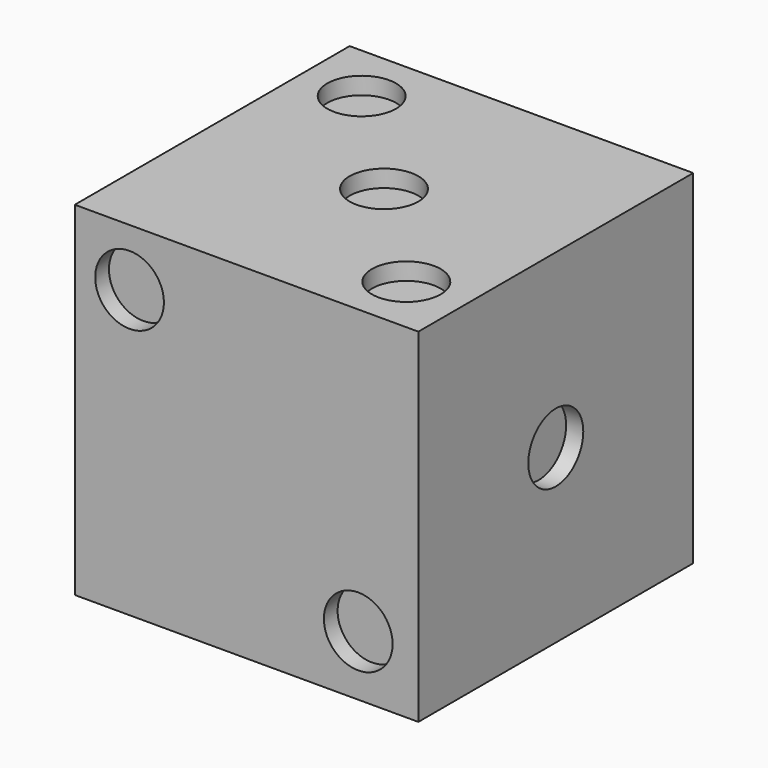
from build123d import *

# Parameters (mm, degrees)
F0_W      = 127
F0_H      = 127
F1_DEPTH  = 127
F2_R      = 12.7
F3_DEPTH  = 6.35
F4_R      = 12.7
F5_DEPTH  = 6.35
F6_R      = 12.7
F7_R      = 12.7
F7_R_2    = 12.14507
F8_DEPTH  = 6.35
F9_R      = 12.7
F10_DEPTH = 6.35
F11_R     = 12.7
F12_DEPTH = 6.35
F13_R     = 12.7
F14_DEPTH = 6.35


with BuildPart() as f1:
    # F0 (on Top) → F1 (new body)
    with BuildSketch(Plane.XY):
        with Locations((63.5, -63.5)):
            Rectangle(F0_W, F0_H)
    extrude(amount=F1_DEPTH)

    # F2 (on face) → F3 (cut)
    with BuildSketch(Plane.YZ.offset(127)):
        with Locations((-63.5, 63.5)):
            Circle(F2_R)
    extrude(amount=-F3_DEPTH, mode=Mode.SUBTRACT)

    # F4 (on face) → F5 (cut)
    with BuildSketch(Plane.XZ.offset(127)):
        with Locations((20.24712, 105.882019)):
            Circle(F4_R)
        with Locations((104.775, 22.225)):
            Circle(F4_R)
    extrude(amount=-F5_DEPTH, mode=Mode.SUBTRACT)

    # F6 (on face) + F7 (on face) → F8 (cut)
    with BuildSketch(Plane(origin=(0, 0, 0), x_dir=(0, -1, 0), z_dir=(-1, 0, 0))):
        with Locations((107.403494, 21.579256)):
            Circle(F6_R)
    with BuildSketch(Plane(origin=(0, 0, 0), x_dir=(0, -1, 0), z_dir=(-1, 0, 0))):
        with Locations((63.5, 22.225)):
            Circle(F7_R)
        with Locations((22.247186, 24.020914)):
            Circle(F7_R_2)
        with Locations((104.775, 104.775)):
            Circle(F7_R)
        with Locations((63.5, 104.775)):
            Circle(F7_R)
        with Locations((22.225, 104.775)):
            Circle(F7_R_2)
    extrude(amount=-F8_DEPTH, mode=Mode.SUBTRACT)

    # F9 (on face) → F10 (cut)
    with BuildSketch(Plane(origin=(0, 0, 0), x_dir=(-1, 0, 0), z_dir=(0, 1, 0))):
        with Locations((-22.44245, 104.347)):
            Circle(F9_R)
        with Locations((-63.5, 63.5)):
            Circle(F9_R)
        with Locations((-22.44245, 22.653)):
            Circle(F9_R)
        with Locations((-104.775, 22.225)):
            Circle(F9_R)
        with Locations((-104.775, 104.775)):
            Circle(F9_R)
    extrude(amount=-F10_DEPTH, mode=Mode.SUBTRACT)

    # F11 (on face) → F12 (cut)
    with BuildSketch(Plane(origin=(0, 0, 0), x_dir=(1, 0, 0), z_dir=(0, 0, -1))):
        with Locations((104.775, 104.775)):
            Circle(F11_R)
        with Locations((22.225, 104.775)):
            Circle(F11_R)
        with Locations((104.775, 22.225)):
            Circle(F11_R)
        with Locations((22.225, 22.225)):
            Circle(F11_R)
    extrude(amount=-F12_DEPTH, mode=Mode.SUBTRACT)

    # F13 (on face) → F14 (cut)
    with BuildSketch(Plane.XY.offset(127)):
        with Locations((63.5, -63.5)):
            Circle(F13_R)
        with Locations((104.775, -104.775)):
            Circle(F13_R)
        with Locations((22.225, -22.225)):
            Circle(F13_R)
    extrude(amount=-F14_DEPTH, mode=Mode.SUBTRACT)


solid = f1.part
